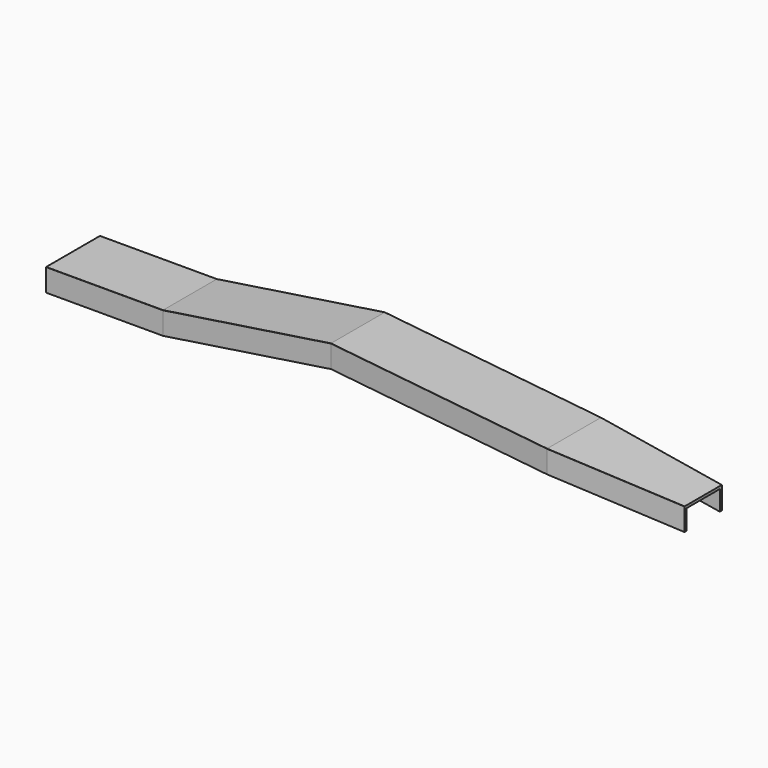
from build123d import *

# Parameters (mm, degrees)
F1_DEPTH = 285.75


with BuildPart() as f1:
    # F0 (on Right) → F1 (new body)
    with BuildSketch(Plane.YZ):
        with BuildLine():
            Line((139.1939870883, -55.245), (139.1939870883, -0.635))
            ThreePointArc((139.1939870883, -0.635), (139.0079998944, -0.1859871939), (138.5589870883, 0))
            Line((138.5589870883, 0), (-25.2710129117, 0))
            ThreePointArc((-25.2710129117, 0), (-25.7200257177, -0.1859871939), (-25.9060129117, -0.635))
            Line((-25.9060129117, -0.635), (-25.9060129117, -55.245))
            Line((-25.9060129117, -55.245), (-19.4721929117, -55.245))
            Line((-19.4721929117, -55.245), (-19.4721929117, -7.06882))
            ThreePointArc((-19.4721929117, -7.06882), (-19.2862057177, -6.6198071939), (-18.8371929117, -6.43382))
            Line((-18.8371929117, -6.43382), (132.1251670883, -6.43382))
            ThreePointArc((132.1251670883, -6.43382), (132.5741798944, -6.6198071939), (132.7601670883, -7.06882))
            Line((132.7601670883, -7.06882), (132.7601670883, -55.245))
            Line((132.7601670883, -55.245), (139.1939870883, -55.245))
        make_face()
    extrude(amount=F1_DEPTH)

    # F1_face (on face) → F4 section 0
    with BuildSketch(Plane(origin=(285.75, 56.6439870883, -13.4815357622), x_dir=(0, 1, 0), z_dir=(1, 0, 0))):
        with BuildLine():
            ThreePointArc((75.48118, 7.0477157622), (75.9301928061, 6.8617285682), (76.11618, 6.4127157622))
            Line((76.11618, 6.4127157622), (76.11618, -41.7634642378))
            Line((76.11618, -41.7634642378), (82.55, -41.7634642378))
            Line((82.55, -41.7634642378), (82.55, 12.8465357622))
            ThreePointArc((82.55, 12.8465357622), (82.3640128061, 13.2955485682), (81.915, 13.4815357622))
            Line((81.915, 13.4815357622), (-81.915, 13.4815357622))
            ThreePointArc((-81.915, 13.4815357622), (-82.3640128061, 13.2955485682), (-82.55, 12.8465357622))
            Line((-82.55, 12.8465357622), (-82.55, -41.7634642378))
            Line((-82.55, -41.7634642378), (-76.11618, -41.7634642378))
            Line((-76.11618, -41.7634642378), (-76.11618, 6.4127157622))
            ThreePointArc((-76.11618, 6.4127157622), (-75.9301928061, 6.8617285682), (-75.48118, 7.0477157622))
            Line((-75.48118, 7.0477157622), (75.48118, 7.0477157622))
        make_face()
    # F3 (on offset) → F4 section 1
    with BuildSketch(Plane.YZ.offset(692.15)):
        with BuildLine():
            Line((144.325162816, 3.3113971339), (144.325162816, 57.9213971339))
            ThreePointArc((144.325162816, 57.9213971339), (144.1391756221, 58.3704099399), (143.690162816, 58.5563971339))
            Line((143.690162816, 58.5563971339), (-20.139837184, 58.5563971339))
            ThreePointArc((-20.139837184, 58.5563971339), (-20.58884999, 58.3704099399), (-20.774837184, 57.9213971339))
            Line((-20.774837184, 57.9213971339), (-20.774837184, 3.3113971339))
            Line((-20.774837184, 3.3113971339), (-14.341017184, 3.3113971339))
            Line((-14.341017184, 3.3113971339), (-14.341017184, 51.4875771339))
            ThreePointArc((-14.341017184, 51.4875771339), (-14.15502999, 51.9365899399), (-13.706017184, 52.1225771339))
            Line((-13.706017184, 52.1225771339), (137.256342816, 52.1225771339))
            ThreePointArc((137.256342816, 52.1225771339), (137.7053556221, 51.9365899399), (137.891342816, 51.4875771339))
            Line((137.891342816, 51.4875771339), (137.891342816, 3.3113971339))
            Line((137.891342816, 3.3113971339), (144.325162816, 3.3113971339))
        make_face()
    loft()

    # F4_face (on face) → F7 section 0
    with BuildSketch(Plane(origin=(692.15, 61.775162816, 45.0748613717), x_dir=(0, 1, 0), z_dir=(1, 0, 0))):
        with BuildLine():
            ThreePointArc((75.48118, 7.0477157622), (75.9301928061, 6.8617285682), (76.11618, 6.4127157622))
            Line((76.11618, 6.4127157622), (76.11618, -41.7634642378))
            Line((76.11618, -41.7634642378), (82.55, -41.7634642378))
            Line((82.55, -41.7634642378), (82.55, 12.8465357622))
            ThreePointArc((82.55, 12.8465357622), (82.3640128061, 13.2955485682), (81.915, 13.4815357622))
            Line((81.915, 13.4815357622), (-81.915, 13.4815357622))
            ThreePointArc((-81.915, 13.4815357622), (-82.3640128061, 13.2955485682), (-82.55, 12.8465357622))
            Line((-82.55, 12.8465357622), (-82.55, -41.7634642378))
            Line((-82.55, -41.7634642378), (-76.11618, -41.7634642378))
            Line((-76.11618, -41.7634642378), (-76.11618, 6.4127157622))
            ThreePointArc((-76.11618, 6.4127157622), (-75.9301928061, 6.8617285682), (-75.48118, 7.0477157622))
            Line((-75.48118, 7.0477157622), (75.48118, 7.0477157622))
        make_face()
    # F6 (on offset) → F7 section 1
    with BuildSketch(Plane.YZ.offset(1250.95)):
        with BuildLine():
            Line((106.3418790059, -26.1026672399), (106.3418790059, 28.5073327601))
            ThreePointArc((106.3418790059, 28.5073327601), (106.1558918119, 28.9563455661), (105.7068790059, 29.1423327601))
            Line((105.7068790059, 29.1423327601), (-58.1231209941, 29.1423327601))
            ThreePointArc((-58.1231209941, 29.1423327601), (-58.5721338002, 28.9563455661), (-58.7581209941, 28.5073327601))
            Line((-58.7581209941, 28.5073327601), (-58.7581209941, -26.1026672399))
            Line((-58.7581209941, -26.1026672399), (-52.3243009941, -26.1026672399))
            Line((-52.3243009941, -26.1026672399), (-52.3243009941, 22.0735127601))
            ThreePointArc((-52.3243009941, 22.0735127601), (-52.1383138002, 22.5225255661), (-51.6893009941, 22.7085127601))
            Line((-51.6893009941, 22.7085127601), (99.2730590059, 22.7085127601))
            ThreePointArc((99.2730590059, 22.7085127601), (99.7220718119, 22.5225255661), (99.9080590059, 22.0735127601))
            Line((99.9080590059, 22.0735127601), (99.9080590059, -26.1026672399))
            Line((99.9080590059, -26.1026672399), (106.3418790059, -26.1026672399))
        make_face()
    loft()

    # F7_face (on face) → F10 section 0
    with BuildSketch(Plane(origin=(1250.95, 23.7918790059, 15.6607969979), x_dir=(0, 1, 0), z_dir=(1, 0, 0))):
        with BuildLine():
            ThreePointArc((75.48118, 7.0477157622), (75.9301928061, 6.8617285682), (76.11618, 6.4127157622))
            Line((76.11618, 6.4127157622), (76.11618, -41.7634642378))
            Line((76.11618, -41.7634642378), (82.55, -41.7634642378))
            Line((82.55, -41.7634642378), (82.55, 12.8465357622))
            ThreePointArc((82.55, 12.8465357622), (82.3640128061, 13.2955485682), (81.915, 13.4815357622))
            Line((81.915, 13.4815357622), (-81.915, 13.4815357622))
            ThreePointArc((-81.915, 13.4815357622), (-82.3640128061, 13.2955485682), (-82.55, 12.8465357622))
            Line((-82.55, 12.8465357622), (-82.55, -41.7634642378))
            Line((-82.55, -41.7634642378), (-76.11618, -41.7634642378))
            Line((-76.11618, -41.7634642378), (-76.11618, 6.4127157622))
            ThreePointArc((-76.11618, 6.4127157622), (-75.9301928061, 6.8617285682), (-75.48118, 7.0477157622))
            Line((-75.48118, 7.0477157622), (75.48118, 7.0477157622))
        make_face()
    # F9 (on offset) → F10 section 1
    with BuildSketch(Plane.YZ.offset(1555.75)):
        with BuildLine():
            Line((94.718426384, -67.1952603455), (94.718426384, -12.5852603455))
            ThreePointArc((94.718426384, -12.5852603455), (94.5324391901, -12.1362475394), (94.083426384, -11.9502603455))
            Line((94.083426384, -11.9502603455), (-18.946573616, -11.9502603455))
            ThreePointArc((-18.946573616, -11.9502603455), (-19.395586422, -12.1362475394), (-19.581573616, -12.5852603455))
            Line((-19.581573616, -12.5852603455), (-19.581573616, -67.1952603455))
            Line((-19.581573616, -67.1952603455), (-13.147753616, -67.1952603455))
            Line((-13.147753616, -67.1952603455), (-13.147753616, -19.0190803455))
            ThreePointArc((-13.147753616, -19.0190803455), (-12.961766422, -18.5700675394), (-12.512753616, -18.3840803455))
            Line((-12.512753616, -18.3840803455), (87.649606384, -18.3840803455))
            ThreePointArc((87.649606384, -18.3840803455), (88.0986191901, -18.5700675394), (88.284606384, -19.0190803455))
            Line((88.284606384, -19.0190803455), (88.284606384, -67.1952603455))
            Line((88.284606384, -67.1952603455), (94.718426384, -67.1952603455))
        make_face()
    loft()


solid = f1.part
